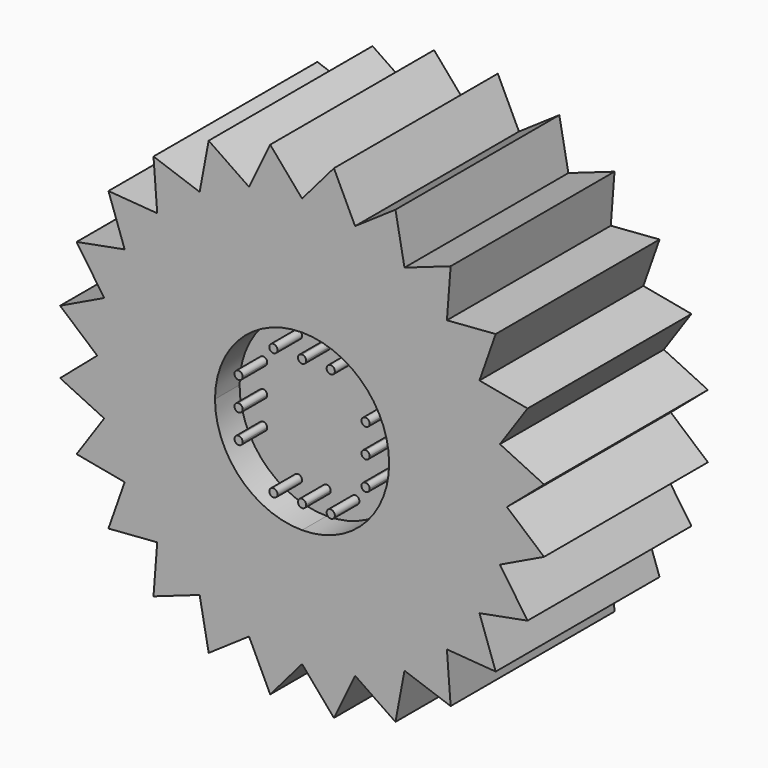
from build123d import *

# Parameters (mm, degrees)
F1_DEPTH = 25.4
F2_R     = 0.508
F3_DEPTH = 3.81
F4_R     = 6.35
F5_DEPTH = 7.62


with BuildPart() as f1:
    # F0 (on Front) → F1 (new body)
    with BuildSketch(Plane.XZ):
        with BuildLine():
            Line((24.9672579939, 3.2870018728), (25.4, 0))
            ThreePointArc((25.4, 0), (25.3456166503, 1.6612394824), (25.1826994789, 3.3153652824))
            Line((25.1826994789, 3.3153652824), (24.9672579939, 3.2870018728))
        make_face()
        with BuildLine():
            Line((30.0037978897, -3.9500749293), (25.4, 0))
            ThreePointArc((25.4, 0), (25.3456166503, -1.6612394824), (25.1826994789, -3.3153652824))
            Line((25.1826994789, -3.3153652824), (30.0037978897, -3.9500749293))
        make_face()
        Polygon((24.9672579939, -3.2870018728), (25.4, 0), (0, 0), (24.5345159877, -6.5740037456), align=None)
        with BuildLine():
            ThreePointArc((25.1826994789, -3.3153652824), (25.3456166503, -1.6612394824), (25.4, 0))
            Line((25.4, 0), (24.9672579939, -3.2870018728))
            Line((24.9672579939, -3.2870018728), (25.1826994789, -3.3153652824))
        make_face()
        Polygon((0, 0), (25.4, 0), (24.9672579939, 3.2870018728), (24.5345159877, 6.5740037456), align=None)
        with BuildLine():
            ThreePointArc((25.1826994789, 3.3153652824), (25.3456166503, 1.6612394824), (25.4, 0))
            Line((25.4, 0), (30.0037978897, 3.9500749293))
            Line((30.0037978897, 3.9500749293), (25.1826994789, 3.3153652824))
        make_face()
        with BuildLine():
            Line((24.9672579939, 3.2870018728), (25.1826994789, 3.3153652824))
            ThreePointArc((25.1826994789, 3.3153652824), (24.9119461222, 4.9552941792), (24.5345159877, 6.5740037456))
            Line((24.5345159877, 6.5740037456), (24.9672579939, 3.2870018728))
        make_face()
        with BuildLine():
            ThreePointArc((24.5345159877, 6.5740037456), (24.9119461222, 4.9552941792), (25.1826994789, 3.3153652824))
            Line((25.1826994789, 3.3153652824), (30.0037978897, 3.9500749293))
            Line((30.0037978897, 3.9500749293), (24.5345159877, 6.5740037456))
        make_face()
        with BuildLine():
            Line((30.0037978897, -3.9500749293), (25.1826994789, -3.3153652824))
            ThreePointArc((25.1826994789, -3.3153652824), (24.9119461222, -4.9552941792), (24.5345159877, -6.5740037456))
            Line((24.5345159877, -6.5740037456), (30.0037978897, -3.9500749293))
        make_face()
        with BuildLine():
            ThreePointArc((24.5345159877, -6.5740037456), (24.9119461222, -4.9552941792), (25.1826994789, -3.3153652824))
            Line((25.1826994789, -3.3153652824), (24.9672579939, -3.2870018728))
            Line((24.9672579939, -3.2870018728), (24.5345159877, -6.5740037456))
        make_face()
        Polygon((-6.5740037456, 24.5345159877), (0, 0), (0, 25.4), (-3.2870018728, 24.9672579939), align=None)
        Polygon((-24.5345159877, -6.5740037456), (0, 0), (-25.4, 0), (-24.9672579939, -3.2870018728), align=None)
        Polygon((6.5740037456, -24.5345159877), (0, 0), (0, -25.4), (3.2870018728, -24.9672579939), align=None)
        Polygon((21.9970452561, 12.7), (0, 0), (24.5345159877, 6.5740037456), (23.2657806219, 9.6370018728), align=None)
        Polygon((17.9605122421, 17.9605122421), (0, 0), (21.9970452561, 12.7), (19.9787787491, 15.3302561211), align=None)
        Polygon((12.7, 21.9970452561), (0, 0), (17.9605122421, 17.9605122421), (15.3302561211, 19.9787787491), align=None)
        Polygon((6.5740037456, 24.5345159877), (0, 0), (12.7, 21.9970452561), (9.6370018728, 23.2657806219), align=None)
        Polygon((0, 25.4), (0, 0), (6.5740037456, 24.5345159877), (3.2870018728, 24.9672579939), align=None)
        Polygon((0, -25.4), (0, 0), (-6.5740037456, -24.5345159877), (-3.2870018728, -24.9672579939), align=None)
        Polygon((24.5345159877, -6.5740037456), (0, 0), (21.9970452561, -12.7), (23.2657806219, -9.6370018728), align=None)
        Polygon((21.9970452561, -12.7), (0, 0), (17.9605122421, -17.9605122421), (19.9787787491, -15.3302561211), align=None)
        Polygon((17.9605122421, -17.9605122421), (0, 0), (12.7, -21.9970452561), (15.3302561211, -19.9787787491), align=None)
        Polygon((12.7, -21.9970452561), (0, 0), (6.5740037456, -24.5345159877), (9.6370018728, -23.2657806219), align=None)
        Polygon((-6.5740037456, -24.5345159877), (0, 0), (-12.7, -21.9970452561), (-9.6370018728, -23.2657806219), align=None)
        Polygon((-12.7, -21.9970452561), (0, 0), (-17.9605122421, -17.9605122421), (-15.3302561211, -19.9787787491), align=None)
        Polygon((-17.9605122421, -17.9605122421), (0, 0), (-21.9970452561, -12.7), (-19.9787787491, -15.3302561211), align=None)
        Polygon((-21.9970452561, -12.7), (0, 0), (-24.5345159877, -6.5740037456), (-23.2657806219, -9.6370018728), align=None)
        Polygon((-25.4, 0), (0, 0), (-24.5345159877, 6.5740037456), (-24.9672579939, 3.2870018728), align=None)
        Polygon((-24.5345159877, 6.5740037456), (0, 0), (-21.9970452561, 12.7), (-23.2657806219, 9.6370018728), align=None)
        Polygon((-21.9970452561, 12.7), (0, 0), (-17.9605122421, 17.9605122421), (-19.9787787491, 15.3302561211), align=None)
        Polygon((-17.9605122421, 17.9605122421), (0, 0), (-12.7, 21.9970452561), (-15.3302561211, 19.9787787491), align=None)
        Polygon((-12.7, 21.9970452561), (0, 0), (-6.5740037456, 24.5345159877), (-9.6370018728, 23.2657806219), align=None)
        with BuildLine():
            Line((23.2657806219, 9.6370018728), (24.5345159877, 6.5740037456))
            ThreePointArc((24.5345159877, 6.5740037456), (24.0520252892, 8.1645624187), (23.4665401258, 9.7201591821))
            Line((23.4665401258, 9.7201591821), (23.2657806219, 9.6370018728))
        make_face()
        with BuildLine():
            ThreePointArc((23.4665401258, 9.7201591821), (24.0520252892, 8.1645624187), (24.5345159877, 6.5740037456))
            Line((24.5345159877, 6.5740037456), (27.9590886471, 11.5810337092))
            Line((27.9590886471, 11.5810337092), (23.4665401258, 9.7201591821))
        make_face()
        with BuildLine():
            Line((27.9590886471, -11.5810337092), (24.5345159877, -6.5740037456))
            ThreePointArc((24.5345159877, -6.5740037456), (24.0520252892, -8.1645624187), (23.4665401258, -9.7201591821))
            Line((23.4665401258, -9.7201591821), (27.9590886471, -11.5810337092))
        make_face()
        with BuildLine():
            ThreePointArc((23.4665401258, -9.7201591821), (24.0520252892, -8.1645624187), (24.5345159877, -6.5740037456))
            Line((24.5345159877, -6.5740037456), (23.2657806219, -9.6370018728))
            Line((23.2657806219, -9.6370018728), (23.4665401258, -9.7201591821))
        make_face()
        with BuildLine():
            Line((3.9500749293, 30.0037978897), (0, 25.4))
            ThreePointArc((0, 25.4), (1.6612394824, 25.3456166503), (3.3153652824, 25.1826994789))
            Line((3.3153652824, 25.1826994789), (3.9500749293, 30.0037978897))
        make_face()
        with BuildLine():
            Line((-3.2870018728, 24.9672579939), (0, 25.4))
            ThreePointArc((0, 25.4), (-1.6612394824, 25.3456166503), (-3.3153652824, 25.1826994789))
            Line((-3.3153652824, 25.1826994789), (-3.2870018728, 24.9672579939))
        make_face()
        with BuildLine():
            ThreePointArc((3.3153652824, 25.1826994789), (1.6612394824, 25.3456166503), (0, 25.4))
            Line((0, 25.4), (3.2870018728, 24.9672579939))
            Line((3.2870018728, 24.9672579939), (3.3153652824, 25.1826994789))
        make_face()
        with BuildLine():
            ThreePointArc((-3.3153652824, 25.1826994789), (-1.6612394824, 25.3456166503), (0, 25.4))
            Line((0, 25.4), (-3.9500749293, 30.0037978897))
            Line((-3.9500749293, 30.0037978897), (-3.3153652824, 25.1826994789))
        make_face()
        with BuildLine():
            Line((-30.0037978897, 3.9500749293), (-25.4, 0))
            ThreePointArc((-25.4, 0), (-25.3456166503, 1.6612394824), (-25.1826994789, 3.3153652824))
            Line((-25.1826994789, 3.3153652824), (-30.0037978897, 3.9500749293))
        make_face()
        with BuildLine():
            Line((-24.9672579939, -3.2870018728), (-25.4, 0))
            ThreePointArc((-25.4, 0), (-25.3456166503, -1.6612394824), (-25.1826994789, -3.3153652824))
            Line((-25.1826994789, -3.3153652824), (-24.9672579939, -3.2870018728))
        make_face()
        with BuildLine():
            ThreePointArc((-25.1826994789, 3.3153652824), (-25.3456166503, 1.6612394824), (-25.4, 0))
            Line((-25.4, 0), (-24.9672579939, 3.2870018728))
            Line((-24.9672579939, 3.2870018728), (-25.1826994789, 3.3153652824))
        make_face()
        with BuildLine():
            ThreePointArc((-25.1826994789, -3.3153652824), (-25.3456166503, -1.6612394824), (-25.4, 0))
            Line((-25.4, 0), (-30.0037978897, -3.9500749293))
            Line((-30.0037978897, -3.9500749293), (-25.1826994789, -3.3153652824))
        make_face()
        with BuildLine():
            Line((-3.9500749293, -30.0037978896), (0, -25.4))
            ThreePointArc((0, -25.4), (-1.6612394824, -25.3456166503), (-3.3153652824, -25.1826994789))
            Line((-3.3153652824, -25.1826994789), (-3.9500749293, -30.0037978896))
        make_face()
        with BuildLine():
            Line((3.2870018728, -24.9672579939), (0, -25.4))
            ThreePointArc((0, -25.4), (1.6612394824, -25.3456166503), (3.3153652824, -25.1826994789))
            Line((3.3153652824, -25.1826994789), (3.2870018728, -24.9672579939))
        make_face()
        with BuildLine():
            ThreePointArc((-3.3153652824, -25.1826994789), (-1.6612394824, -25.3456166503), (0, -25.4))
            Line((0, -25.4), (-3.2870018728, -24.9672579939))
            Line((-3.2870018728, -24.9672579939), (-3.3153652824, -25.1826994789))
        make_face()
        with BuildLine():
            ThreePointArc((3.3153652824, -25.1826994789), (1.6612394824, -25.3456166503), (0, -25.4))
            Line((0, -25.4), (3.9500749293, -30.0037978897))
            Line((3.9500749293, -30.0037978897), (3.3153652824, -25.1826994789))
        make_face()
        with BuildLine():
            Line((27.9590886471, 11.5810337092), (21.9970452561, 12.7))
            ThreePointArc((21.9970452561, 12.7), (22.7805676349, 11.2341327316), (23.4665401258, 9.7201591821))
            Line((23.4665401258, 9.7201591821), (27.9590886471, 11.5810337092))
        make_face()
        with BuildLine():
            Line((19.9787787491, 15.3302561211), (21.9970452561, 12.7))
            ThreePointArc((21.9970452561, 12.7), (21.1193281525, 14.1114839187), (20.1511748434, 15.4625402968))
            Line((20.1511748434, 15.4625402968), (19.9787787491, 15.3302561211))
        make_face()
        with BuildLine():
            ThreePointArc((23.4665401258, 9.7201591821), (22.7805676349, 11.2341327316), (21.9970452561, 12.7))
            Line((21.9970452561, 12.7), (23.2657806219, 9.6370018728))
            Line((23.2657806219, 9.6370018728), (23.4665401258, 9.7201591821))
        make_face()
        with BuildLine():
            ThreePointArc((20.1511748434, 15.4625402968), (21.1193281525, 14.1114839187), (21.9970452561, 12.7))
            Line((21.9970452561, 12.7), (24.0090137178, 18.4227641804))
            Line((24.0090137178, 18.4227641804), (20.1511748434, 15.4625402968))
        make_face()
        with BuildLine():
            Line((24.0090137178, 18.4227641804), (17.9605122421, 17.9605122421))
            ThreePointArc((17.9605122421, 17.9605122421), (19.09673111, 16.7473837035), (20.1511748434, 15.4625402968))
            Line((20.1511748434, 15.4625402968), (24.0090137178, 18.4227641804))
        make_face()
        with BuildLine():
            Line((15.3302561211, 19.9787787491), (17.9605122421, 17.9605122421))
            ThreePointArc((17.9605122421, 17.9605122421), (16.7473837035, 19.09673111), (15.4625402968, 20.1511748434))
            Line((15.4625402968, 20.1511748434), (15.3302561211, 19.9787787491))
        make_face()
        with BuildLine():
            ThreePointArc((20.1511748434, 15.4625402968), (19.09673111, 16.7473837035), (17.9605122421, 17.9605122421))
            Line((17.9605122421, 17.9605122421), (19.9787787491, 15.3302561211))
            Line((19.9787787491, 15.3302561211), (20.1511748434, 15.4625402968))
        make_face()
        with BuildLine():
            ThreePointArc((15.4625402968, 20.1511748434), (16.7473837035, 19.09673111), (17.9605122421, 17.9605122421))
            Line((17.9605122421, 17.9605122421), (18.4227641804, 24.0090137178))
            Line((18.4227641804, 24.0090137178), (15.4625402968, 20.1511748434))
        make_face()
        with BuildLine():
            Line((18.4227641804, 24.0090137178), (12.7, 21.9970452561))
            ThreePointArc((12.7, 21.9970452561), (14.1114839187, 21.1193281525), (15.4625402968, 20.1511748434))
            Line((15.4625402968, 20.1511748434), (18.4227641804, 24.0090137178))
        make_face()
        with BuildLine():
            Line((9.6370018728, 23.2657806219), (12.7, 21.9970452561))
            ThreePointArc((12.7, 21.9970452561), (11.2341327316, 22.7805676349), (9.7201591821, 23.4665401258))
            Line((9.7201591821, 23.4665401258), (9.6370018728, 23.2657806219))
        make_face()
        with BuildLine():
            ThreePointArc((15.4625402968, 20.1511748434), (14.1114839187, 21.1193281525), (12.7, 21.9970452561))
            Line((12.7, 21.9970452561), (15.3302561211, 19.9787787491))
            Line((15.3302561211, 19.9787787491), (15.4625402968, 20.1511748434))
        make_face()
        with BuildLine():
            ThreePointArc((9.7201591821, 23.4665401258), (11.2341327316, 22.7805676349), (12.7, 21.9970452561))
            Line((12.7, 21.9970452561), (11.5810337092, 27.9590886471))
            Line((11.5810337092, 27.9590886471), (9.7201591821, 23.4665401258))
        make_face()
        with BuildLine():
            Line((11.5810337092, 27.9590886471), (6.5740037456, 24.5345159877))
            ThreePointArc((6.5740037456, 24.5345159877), (8.1645624187, 24.0520252892), (9.7201591821, 23.4665401258))
            Line((9.7201591821, 23.4665401258), (11.5810337092, 27.9590886471))
        make_face()
        with BuildLine():
            Line((3.2870018728, 24.9672579939), (6.5740037456, 24.5345159877))
            ThreePointArc((6.5740037456, 24.5345159877), (4.9552941792, 24.9119461222), (3.3153652824, 25.1826994789))
            Line((3.3153652824, 25.1826994789), (3.2870018728, 24.9672579939))
        make_face()
        with BuildLine():
            ThreePointArc((9.7201591821, 23.4665401258), (8.1645624187, 24.0520252892), (6.5740037456, 24.5345159877))
            Line((6.5740037456, 24.5345159877), (9.6370018728, 23.2657806219))
            Line((9.6370018728, 23.2657806219), (9.7201591821, 23.4665401258))
        make_face()
        with BuildLine():
            ThreePointArc((3.3153652824, 25.1826994789), (4.9552941792, 24.9119461222), (6.5740037456, 24.5345159877))
            Line((6.5740037456, 24.5345159877), (3.9500749293, 30.0037978897))
            Line((3.9500749293, 30.0037978897), (3.3153652824, 25.1826994789))
        make_face()
        with BuildLine():
            Line((-11.5810337092, -27.9590886471), (-6.5740037456, -24.5345159877))
            ThreePointArc((-6.5740037456, -24.5345159877), (-8.1645624187, -24.0520252892), (-9.7201591821, -23.4665401258))
            Line((-9.7201591821, -23.4665401258), (-11.5810337092, -27.9590886471))
        make_face()
        with BuildLine():
            Line((-3.2870018728, -24.9672579939), (-6.5740037456, -24.5345159877))
            ThreePointArc((-6.5740037456, -24.5345159877), (-4.9552941792, -24.9119461222), (-3.3153652824, -25.1826994789))
            Line((-3.3153652824, -25.1826994789), (-3.2870018728, -24.9672579939))
        make_face()
        with BuildLine():
            ThreePointArc((-9.7201591821, -23.4665401258), (-8.1645624187, -24.0520252892), (-6.5740037456, -24.5345159877))
            Line((-6.5740037456, -24.5345159877), (-9.6370018728, -23.2657806219))
            Line((-9.6370018728, -23.2657806219), (-9.7201591821, -23.4665401258))
        make_face()
        with BuildLine():
            ThreePointArc((-3.3153652824, -25.1826994789), (-4.9552941792, -24.9119461222), (-6.5740037456, -24.5345159877))
            Line((-6.5740037456, -24.5345159877), (-3.9500749293, -30.0037978897))
            Line((-3.9500749293, -30.0037978896), (-3.3153652824, -25.1826994789))
        make_face()
        with BuildLine():
            Line((24.0090137178, -18.4227641804), (21.9970452561, -12.7))
            ThreePointArc((21.9970452561, -12.7), (21.1193281525, -14.1114839187), (20.1511748434, -15.4625402968))
            Line((20.1511748434, -15.4625402968), (24.0090137178, -18.4227641804))
        make_face()
        with BuildLine():
            Line((23.2657806219, -9.6370018728), (21.9970452561, -12.7))
            ThreePointArc((21.9970452561, -12.7), (22.7805676349, -11.2341327316), (23.4665401258, -9.7201591821))
            Line((23.4665401258, -9.7201591821), (23.2657806219, -9.6370018728))
        make_face()
        with BuildLine():
            ThreePointArc((20.1511748434, -15.4625402968), (21.1193281525, -14.1114839187), (21.9970452561, -12.7))
            Line((21.9970452561, -12.7), (19.9787787491, -15.3302561211))
            Line((19.9787787491, -15.3302561211), (20.1511748434, -15.4625402968))
        make_face()
        with BuildLine():
            ThreePointArc((23.4665401258, -9.7201591821), (22.7805676349, -11.2341327316), (21.9970452561, -12.7))
            Line((21.9970452561, -12.7), (27.9590886471, -11.5810337092))
            Line((27.9590886471, -11.5810337092), (23.4665401258, -9.7201591821))
        make_face()
        with BuildLine():
            Line((18.4227641804, -24.0090137178), (17.9605122421, -17.9605122421))
            ThreePointArc((17.9605122421, -17.9605122421), (16.7473837035, -19.09673111), (15.4625402968, -20.1511748434))
            Line((15.4625402968, -20.1511748434), (18.4227641804, -24.0090137178))
        make_face()
        with BuildLine():
            Line((19.9787787491, -15.3302561211), (17.9605122421, -17.9605122421))
            ThreePointArc((17.9605122421, -17.9605122421), (19.09673111, -16.7473837035), (20.1511748434, -15.4625402968))
            Line((20.1511748434, -15.4625402968), (19.9787787491, -15.3302561211))
        make_face()
        with BuildLine():
            ThreePointArc((15.4625402968, -20.1511748434), (16.7473837035, -19.09673111), (17.9605122421, -17.9605122421))
            Line((17.9605122421, -17.9605122421), (15.3302561211, -19.9787787491))
            Line((15.3302561211, -19.9787787491), (15.4625402968, -20.1511748434))
        make_face()
        with BuildLine():
            ThreePointArc((20.1511748434, -15.4625402968), (19.09673111, -16.7473837035), (17.9605122421, -17.9605122421))
            Line((17.9605122421, -17.9605122421), (24.0090137178, -18.4227641804))
            Line((24.0090137178, -18.4227641804), (20.1511748434, -15.4625402968))
        make_face()
        with BuildLine():
            Line((11.5810337092, -27.9590886471), (12.7, -21.9970452561))
            ThreePointArc((12.7, -21.9970452561), (11.2341327316, -22.7805676349), (9.7201591821, -23.4665401258))
            Line((9.7201591821, -23.4665401258), (11.5810337092, -27.9590886471))
        make_face()
        with BuildLine():
            Line((15.3302561211, -19.9787787491), (12.7, -21.9970452561))
            ThreePointArc((12.7, -21.9970452561), (14.1114839187, -21.1193281525), (15.4625402968, -20.1511748434))
            Line((15.4625402968, -20.1511748434), (15.3302561211, -19.9787787491))
        make_face()
        with BuildLine():
            ThreePointArc((9.7201591821, -23.4665401258), (11.2341327316, -22.7805676349), (12.7, -21.9970452561))
            Line((12.7, -21.9970452561), (9.6370018728, -23.2657806219))
            Line((9.6370018728, -23.2657806219), (9.7201591821, -23.4665401258))
        make_face()
        with BuildLine():
            ThreePointArc((15.4625402968, -20.1511748434), (14.1114839187, -21.1193281525), (12.7, -21.9970452561))
            Line((12.7, -21.9970452561), (18.4227641804, -24.0090137178))
            Line((18.4227641804, -24.0090137178), (15.4625402968, -20.1511748434))
        make_face()
        with BuildLine():
            Line((3.9500749293, -30.0037978897), (6.5740037456, -24.5345159877))
            ThreePointArc((6.5740037456, -24.5345159877), (4.9552941792, -24.9119461222), (3.3153652824, -25.1826994789))
            Line((3.3153652824, -25.1826994789), (3.9500749293, -30.0037978897))
        make_face()
        with BuildLine():
            Line((9.6370018728, -23.2657806219), (6.5740037456, -24.5345159877))
            ThreePointArc((6.5740037456, -24.5345159877), (8.1645624187, -24.0520252892), (9.7201591821, -23.4665401258))
            Line((9.7201591821, -23.4665401258), (9.6370018728, -23.2657806219))
        make_face()
        with BuildLine():
            ThreePointArc((3.3153652824, -25.1826994789), (4.9552941792, -24.9119461222), (6.5740037456, -24.5345159877))
            Line((6.5740037456, -24.5345159877), (3.2870018728, -24.9672579939))
            Line((3.2870018728, -24.9672579939), (3.3153652824, -25.1826994789))
        make_face()
        with BuildLine():
            ThreePointArc((9.7201591821, -23.4665401258), (8.1645624187, -24.0520252892), (6.5740037456, -24.5345159877))
            Line((6.5740037456, -24.5345159877), (11.5810337092, -27.9590886471))
            Line((11.5810337092, -27.9590886471), (9.7201591821, -23.4665401258))
        make_face()
        with BuildLine():
            Line((-18.4227641804, -24.0090137178), (-12.7, -21.9970452561))
            ThreePointArc((-12.7, -21.9970452561), (-14.1114839187, -21.1193281525), (-15.4625402968, -20.1511748434))
            Line((-15.4625402968, -20.1511748434), (-18.4227641804, -24.0090137178))
        make_face()
        with BuildLine():
            Line((-9.6370018728, -23.2657806219), (-12.7, -21.9970452561))
            ThreePointArc((-12.7, -21.9970452561), (-11.2341327316, -22.7805676349), (-9.7201591821, -23.4665401258))
            Line((-9.7201591821, -23.4665401258), (-9.6370018728, -23.2657806219))
        make_face()
        with BuildLine():
            ThreePointArc((-15.4625402968, -20.1511748434), (-14.1114839187, -21.1193281525), (-12.7, -21.9970452561))
            Line((-12.7, -21.9970452561), (-15.3302561211, -19.9787787491))
            Line((-15.3302561211, -19.9787787491), (-15.4625402968, -20.1511748434))
        make_face()
        with BuildLine():
            ThreePointArc((-9.7201591821, -23.4665401258), (-11.2341327316, -22.7805676349), (-12.7, -21.9970452561))
            Line((-12.7, -21.9970452561), (-11.5810337092, -27.9590886471))
            Line((-11.5810337092, -27.9590886471), (-9.7201591821, -23.4665401258))
        make_face()
        with BuildLine():
            Line((-24.0090137178, -18.4227641804), (-17.9605122421, -17.9605122421))
            ThreePointArc((-17.9605122421, -17.9605122421), (-19.09673111, -16.7473837035), (-20.1511748434, -15.4625402968))
            Line((-20.1511748434, -15.4625402968), (-24.0090137178, -18.4227641804))
        make_face()
        with BuildLine():
            Line((-15.3302561211, -19.9787787491), (-17.9605122421, -17.9605122421))
            ThreePointArc((-17.9605122421, -17.9605122421), (-16.7473837035, -19.09673111), (-15.4625402968, -20.1511748434))
            Line((-15.4625402968, -20.1511748434), (-15.3302561211, -19.9787787491))
        make_face()
        with BuildLine():
            ThreePointArc((-20.1511748434, -15.4625402968), (-19.09673111, -16.7473837035), (-17.9605122421, -17.9605122421))
            Line((-17.9605122421, -17.9605122421), (-19.9787787491, -15.3302561211))
            Line((-19.9787787491, -15.3302561211), (-20.1511748434, -15.4625402968))
        make_face()
        with BuildLine():
            ThreePointArc((-15.4625402968, -20.1511748434), (-16.7473837035, -19.09673111), (-17.9605122421, -17.9605122421))
            Line((-17.9605122421, -17.9605122421), (-18.4227641804, -24.0090137178))
            Line((-18.4227641804, -24.0090137178), (-15.4625402968, -20.1511748434))
        make_face()
        with BuildLine():
            Line((-27.9590886471, -11.5810337092), (-21.9970452561, -12.7))
            ThreePointArc((-21.9970452561, -12.7), (-22.7805676349, -11.2341327316), (-23.4665401258, -9.7201591821))
            Line((-23.4665401258, -9.7201591821), (-27.9590886471, -11.5810337092))
        make_face()
        with BuildLine():
            Line((-19.9787787491, -15.3302561211), (-21.9970452561, -12.7))
            ThreePointArc((-21.9970452561, -12.7), (-21.1193281525, -14.1114839187), (-20.1511748434, -15.4625402968))
            Line((-20.1511748434, -15.4625402968), (-19.9787787491, -15.3302561211))
        make_face()
        with BuildLine():
            ThreePointArc((-23.4665401258, -9.7201591821), (-22.7805676349, -11.2341327316), (-21.9970452561, -12.7))
            Line((-21.9970452561, -12.7), (-23.2657806219, -9.6370018728))
            Line((-23.2657806219, -9.6370018728), (-23.4665401258, -9.7201591821))
        make_face()
        with BuildLine():
            ThreePointArc((-20.1511748434, -15.4625402968), (-21.1193281525, -14.1114839187), (-21.9970452561, -12.7))
            Line((-21.9970452561, -12.7), (-24.0090137178, -18.4227641804))
            Line((-24.0090137178, -18.4227641804), (-20.1511748434, -15.4625402968))
        make_face()
        with BuildLine():
            Line((-30.0037978897, -3.9500749293), (-24.5345159877, -6.5740037456))
            ThreePointArc((-24.5345159877, -6.5740037456), (-24.9119461222, -4.9552941792), (-25.1826994789, -3.3153652824))
            Line((-25.1826994789, -3.3153652824), (-30.0037978897, -3.9500749293))
        make_face()
        with BuildLine():
            Line((-23.2657806219, -9.6370018728), (-24.5345159877, -6.5740037456))
            ThreePointArc((-24.5345159877, -6.5740037456), (-24.0520252892, -8.1645624187), (-23.4665401258, -9.7201591821))
            Line((-23.4665401258, -9.7201591821), (-23.2657806219, -9.6370018728))
        make_face()
        with BuildLine():
            ThreePointArc((-25.1826994789, -3.3153652824), (-24.9119461222, -4.9552941792), (-24.5345159877, -6.5740037456))
            Line((-24.5345159877, -6.5740037456), (-24.9672579939, -3.2870018728))
            Line((-24.9672579939, -3.2870018728), (-25.1826994789, -3.3153652824))
        make_face()
        with BuildLine():
            ThreePointArc((-23.4665401258, -9.7201591821), (-24.0520252892, -8.1645624187), (-24.5345159877, -6.5740037456))
            Line((-24.5345159877, -6.5740037456), (-27.9590886471, -11.5810337092))
            Line((-27.9590886471, -11.5810337092), (-23.4665401258, -9.7201591821))
        make_face()
        with BuildLine():
            Line((-27.9590886471, 11.5810337092), (-24.5345159877, 6.5740037456))
            ThreePointArc((-24.5345159877, 6.5740037456), (-24.0520252892, 8.1645624187), (-23.4665401258, 9.7201591821))
            Line((-23.4665401258, 9.7201591821), (-27.9590886471, 11.5810337092))
        make_face()
        with BuildLine():
            Line((-24.9672579939, 3.2870018728), (-24.5345159877, 6.5740037456))
            ThreePointArc((-24.5345159877, 6.5740037456), (-24.9119461222, 4.9552941792), (-25.1826994789, 3.3153652824))
            Line((-25.1826994789, 3.3153652824), (-24.9672579939, 3.2870018728))
        make_face()
        with BuildLine():
            ThreePointArc((-23.4665401258, 9.7201591821), (-24.0520252892, 8.1645624187), (-24.5345159877, 6.5740037456))
            Line((-24.5345159877, 6.5740037456), (-23.2657806219, 9.6370018728))
            Line((-23.2657806219, 9.6370018728), (-23.4665401258, 9.7201591821))
        make_face()
        with BuildLine():
            ThreePointArc((-25.1826994789, 3.3153652824), (-24.9119461222, 4.9552941792), (-24.5345159877, 6.5740037456))
            Line((-24.5345159877, 6.5740037456), (-30.0037978897, 3.9500749293))
            Line((-30.0037978897, 3.9500749293), (-25.1826994789, 3.3153652824))
        make_face()
        with BuildLine():
            Line((-24.0090137178, 18.4227641804), (-21.9970452561, 12.7))
            ThreePointArc((-21.9970452561, 12.7), (-21.1193281525, 14.1114839187), (-20.1511748434, 15.4625402968))
            Line((-20.1511748434, 15.4625402968), (-24.0090137178, 18.4227641804))
        make_face()
        with BuildLine():
            Line((-23.2657806219, 9.6370018728), (-21.9970452561, 12.7))
            ThreePointArc((-21.9970452561, 12.7), (-22.7805676349, 11.2341327316), (-23.4665401258, 9.7201591821))
            Line((-23.4665401258, 9.7201591821), (-23.2657806219, 9.6370018728))
        make_face()
        with BuildLine():
            ThreePointArc((-20.1511748434, 15.4625402968), (-21.1193281525, 14.1114839187), (-21.9970452561, 12.7))
            Line((-21.9970452561, 12.7), (-19.9787787491, 15.3302561211))
            Line((-19.9787787491, 15.3302561211), (-20.1511748434, 15.4625402968))
        make_face()
        with BuildLine():
            ThreePointArc((-23.4665401258, 9.7201591821), (-22.7805676349, 11.2341327316), (-21.9970452561, 12.7))
            Line((-21.9970452561, 12.7), (-27.9590886471, 11.5810337092))
            Line((-27.9590886471, 11.5810337092), (-23.4665401258, 9.7201591821))
        make_face()
        with BuildLine():
            Line((-18.4227641804, 24.0090137178), (-17.9605122421, 17.9605122421))
            ThreePointArc((-17.9605122421, 17.9605122421), (-16.7473837035, 19.09673111), (-15.4625402968, 20.1511748434))
            Line((-15.4625402968, 20.1511748434), (-18.4227641804, 24.0090137178))
        make_face()
        with BuildLine():
            Line((-19.9787787491, 15.3302561211), (-17.9605122421, 17.9605122421))
            ThreePointArc((-17.9605122421, 17.9605122421), (-19.09673111, 16.7473837035), (-20.1511748434, 15.4625402968))
            Line((-20.1511748434, 15.4625402968), (-19.9787787491, 15.3302561211))
        make_face()
        with BuildLine():
            ThreePointArc((-15.4625402968, 20.1511748434), (-16.7473837035, 19.09673111), (-17.9605122421, 17.9605122421))
            Line((-17.9605122421, 17.9605122421), (-15.3302561211, 19.9787787491))
            Line((-15.3302561211, 19.9787787491), (-15.4625402968, 20.1511748434))
        make_face()
        with BuildLine():
            ThreePointArc((-20.1511748434, 15.4625402968), (-19.09673111, 16.7473837035), (-17.9605122421, 17.9605122421))
            Line((-17.9605122421, 17.9605122421), (-24.0090137178, 18.4227641804))
            Line((-24.0090137178, 18.4227641804), (-20.1511748434, 15.4625402968))
        make_face()
        with BuildLine():
            Line((-11.5810337092, 27.9590886471), (-12.7, 21.9970452561))
            ThreePointArc((-12.7, 21.9970452561), (-11.2341327316, 22.7805676349), (-9.7201591821, 23.4665401258))
            Line((-9.7201591821, 23.4665401258), (-11.5810337092, 27.9590886471))
        make_face()
        with BuildLine():
            Line((-15.3302561211, 19.9787787491), (-12.7, 21.9970452561))
            ThreePointArc((-12.7, 21.9970452561), (-14.1114839187, 21.1193281525), (-15.4625402968, 20.1511748434))
            Line((-15.4625402968, 20.1511748434), (-15.3302561211, 19.9787787491))
        make_face()
        with BuildLine():
            ThreePointArc((-9.7201591821, 23.4665401258), (-11.2341327316, 22.7805676349), (-12.7, 21.9970452561))
            Line((-12.7, 21.9970452561), (-9.6370018728, 23.2657806219))
            Line((-9.6370018728, 23.2657806219), (-9.7201591821, 23.4665401258))
        make_face()
        with BuildLine():
            ThreePointArc((-15.4625402968, 20.1511748434), (-14.1114839187, 21.1193281525), (-12.7, 21.9970452561))
            Line((-12.7, 21.9970452561), (-18.4227641804, 24.0090137178))
            Line((-18.4227641804, 24.0090137178), (-15.4625402968, 20.1511748434))
        make_face()
        with BuildLine():
            Line((-3.9500749293, 30.0037978897), (-6.5740037456, 24.5345159877))
            ThreePointArc((-6.5740037456, 24.5345159877), (-4.9552941792, 24.9119461222), (-3.3153652824, 25.1826994789))
            Line((-3.3153652824, 25.1826994789), (-3.9500749293, 30.0037978897))
        make_face()
        with BuildLine():
            Line((-9.6370018728, 23.2657806219), (-6.5740037456, 24.5345159877))
            ThreePointArc((-6.5740037456, 24.5345159877), (-8.1645624187, 24.0520252892), (-9.7201591821, 23.4665401258))
            Line((-9.7201591821, 23.4665401258), (-9.6370018728, 23.2657806219))
        make_face()
        with BuildLine():
            ThreePointArc((-3.3153652824, 25.1826994789), (-4.9552941792, 24.9119461222), (-6.5740037456, 24.5345159877))
            Line((-6.5740037456, 24.5345159877), (-3.2870018728, 24.9672579939))
            Line((-3.2870018728, 24.9672579939), (-3.3153652824, 25.1826994789))
        make_face()
        with BuildLine():
            ThreePointArc((-9.7201591821, 23.4665401258), (-8.1645624187, 24.0520252892), (-6.5740037456, 24.5345159877))
            Line((-6.5740037456, 24.5345159877), (-11.5810337092, 27.9590886471))
            Line((-11.5810337092, 27.9590886471), (-9.7201591821, 23.4665401258))
        make_face()
    extrude(amount=F1_DEPTH)

    # F2 (on face) → F3 (cut)
    with BuildSketch(Plane.XZ.offset(25.4)):
        with BuildLine():
            ThreePointArc((0, -10.795), (7.6332177029, -7.6332177029), (10.795, 0))
            ThreePointArc((10.795, 0), (7.6332177029, 7.6332177029), (0, 10.795))
            ThreePointArc((0, 10.795), (-7.6332177029, 7.6332177029), (-10.795, 0))
            ThreePointArc((-10.795, 0), (-7.6332177029, -7.6332177029), (0, -10.795))
        make_face()
        with Locations((-3.556, -7.874)):
            Circle(F2_R, mode=Mode.SUBTRACT)
        with BuildLine():
            ThreePointArc((-7.366, -3.556), (-8.2332102448, -3.9152102448), (-7.874, -3.048))
            ThreePointArc((-7.874, -3.048), (-7.5147897552, -3.1967897552), (-7.366, -3.556))
        make_face(mode=Mode.SUBTRACT)
        with BuildLine():
            ThreePointArc((0.508, -7.874), (0.3592102448, -8.2332102448), (0, -8.382))
            ThreePointArc((0, -8.382), (-0.3592102448, -8.2332102448), (-0.508, -7.874))
            ThreePointArc((-0.508, -7.874), (0, -7.366), (0.508, -7.874))
        make_face(mode=Mode.SUBTRACT)
        with BuildLine():
            ThreePointArc((4.064, -7.874), (3.556, -8.382), (3.048, -7.874))
            ThreePointArc((3.048, -7.874), (3.556, -7.366), (4.064, -7.874))
        make_face(mode=Mode.SUBTRACT)
        with BuildLine():
            ThreePointArc((8.382, -3.556), (7.5147897552, -3.9152102448), (7.874, -3.048))
            ThreePointArc((7.874, -3.048), (8.2332102448, -3.1967897552), (8.382, -3.556))
        make_face(mode=Mode.SUBTRACT)
        with BuildLine():
            ThreePointArc((-7.874, -0.508), (-8.2332102448, -0.3592102448), (-8.382, 0))
            ThreePointArc((-8.382, 0), (-8.2332102448, 0.3592102448), (-7.874, 0.508))
            ThreePointArc((-7.874, 0.508), (-7.5147897552, 0.3592102448), (-7.366, 0))
            ThreePointArc((-7.366, 0), (-7.5147897552, -0.3592102448), (-7.874, -0.508))
        make_face(mode=Mode.SUBTRACT)
        with BuildLine():
            ThreePointArc((-7.366, 3.556), (-7.5147897552, 3.1967897552), (-7.874, 3.048))
            ThreePointArc((-7.874, 3.048), (-8.2332102448, 3.9152102448), (-7.366, 3.556))
        make_face(mode=Mode.SUBTRACT)
        with Locations((-3.556, 7.874)):
            Circle(F2_R, mode=Mode.SUBTRACT)
        with BuildLine():
            ThreePointArc((7.874, 0.508), (8.2332102448, 0.3592102448), (8.382, 0))
            ThreePointArc((8.382, 0), (8.2332102448, -0.3592102448), (7.874, -0.508))
            ThreePointArc((7.874, -0.508), (7.366, 0), (7.874, 0.508))
        make_face(mode=Mode.SUBTRACT)
        with BuildLine():
            ThreePointArc((8.382, 3.556), (8.2332102448, 3.1967897552), (7.874, 3.048))
            ThreePointArc((7.874, 3.048), (7.5147897552, 3.9152102448), (8.382, 3.556))
        make_face(mode=Mode.SUBTRACT)
        with BuildLine():
            ThreePointArc((-0.508, 7.874), (-0.3592102448, 8.2332102448), (0, 8.382))
            ThreePointArc((0, 8.382), (0.3592102448, 8.2332102448), (0.508, 7.874))
            ThreePointArc((0.508, 7.874), (0, 7.366), (-0.508, 7.874))
        make_face(mode=Mode.SUBTRACT)
        with BuildLine():
            ThreePointArc((4.064, 7.874), (3.556, 7.366), (3.048, 7.874))
            ThreePointArc((3.048, 7.874), (3.556, 8.382), (4.064, 7.874))
        make_face(mode=Mode.SUBTRACT)
    extrude(amount=-F3_DEPTH, mode=Mode.SUBTRACT)

    # F4 (on face) → F5 (join)
    with BuildSketch(Plane(origin=(0, 0, 0), x_dir=(-1, 0, 0), z_dir=(0, 1, 0))):
        Circle(F4_R)
    extrude(amount=F5_DEPTH)


solid = f1.part
